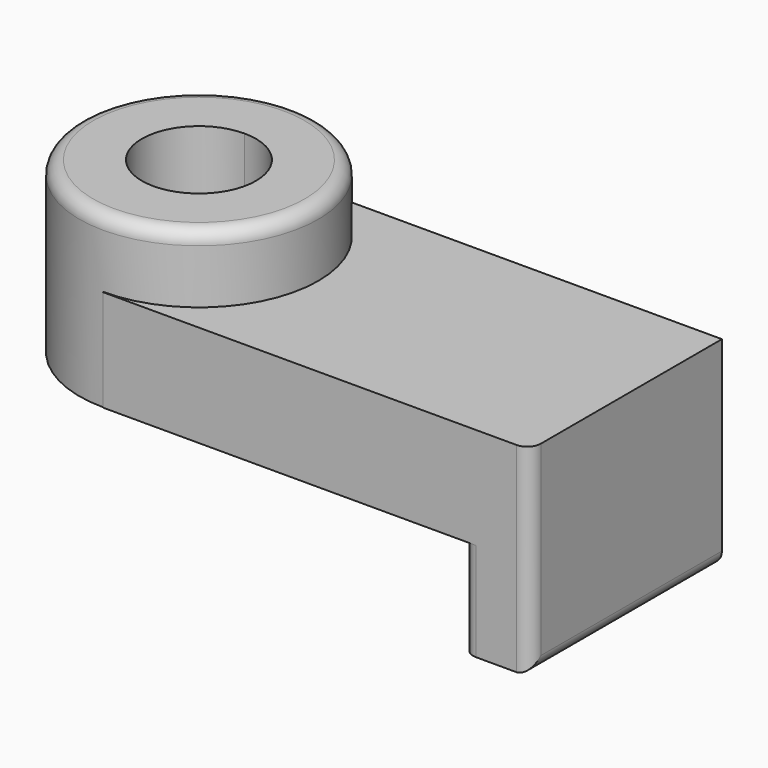
from build123d import *

# Parameters (mm, degrees)
F1_DEPTH = 38.1
F2_DEPTH = 63.5
F3_R     = 5.08
F4_W     = 89.9337530136
F4_H     = 74.9955805898
F5_DEPTH = 25.4
F6_R     = 5.08


with BuildPart() as f1:
    # F0 (on Top) → F1 (new body)
    with BuildSketch(Plane.XY):
        with BuildLine():
            Line((67.3384442925, 44.9668765068), (-67.3384442925, 44.9668765068))
            Line((-67.3384442925, 44.9668765068), (-67.3384442925, 44.7683221654))
            ThreePointArc((-67.3384442925, 44.7683221654), (-35.682460107, 31.6559841855), (-22.5701221271, 0))
            ThreePointArc((-22.5701221271, 0), (-35.682460107, -31.6559841855), (-67.3384442925, -44.7683221654))
            Line((-67.3384442925, -44.7683221654), (-67.3384442925, -44.9668765068))
            Line((-67.3384442925, -44.9668765068), (67.3384442925, -44.9668765068))
            Line((67.3384442925, -44.9668765068), (67.3384442925, 44.9668765068))
        make_face()
    extrude(amount=F1_DEPTH)

    # F0 (on Top) → F2 (join)
    with BuildSketch(Plane.XY):
        with BuildLine():
            Line((-67.3384442925, 21.3704215864), (-67.3384442925, 44.7683221654))
            ThreePointArc((-67.3384442925, 44.7683221654), (-112.1067664579, 0), (-67.3384442925, -44.7683221654))
            Line((-67.3384442925, -44.7683221654), (-67.3384442925, -21.3704215864))
            ThreePointArc((-67.3384442925, -21.3704215864), (-88.7088658789, 0), (-67.3384442925, 21.3704215864))
        make_face()
        with BuildLine():
            ThreePointArc((-22.5701221271, 0), (-35.682460107, 31.6559841855), (-67.3384442925, 44.7683221654))
            Line((-67.3384442925, 44.7683221654), (-67.3384442925, 21.3704215864))
            ThreePointArc((-67.3384442925, 21.3704215864), (-52.227274272, 15.1111700206), (-45.9680227061, 0))
            ThreePointArc((-45.9680227061, 0), (-52.227274272, -15.1111700206), (-67.3384442925, -21.3704215864))
            Line((-67.3384442925, -21.3704215864), (-67.3384442925, -44.7683221654))
            ThreePointArc((-67.3384442925, -44.7683221654), (-35.682460107, -31.6559841855), (-22.5701221271, 0))
        make_face()
    extrude(amount=F2_DEPTH)

    # F3
    f3_edges = [f1.edges().sort_by_distance(p)[0] for p in [
        (-67.338444, 44.768322, 63.5),
    ]]
    fillet(f3_edges, radius=F3_R)

    # F4 (on face) → F5 (join)
    with BuildSketch(Plane.YZ.offset(67.3384442925)):
        with Locations((0, 0.6022097051)):
            Rectangle(F4_W, F4_H)
    extrude(amount=F5_DEPTH)

    # F6
    f6_edges = [f1.edges().sort_by_distance(p)[0] for p in [
        (92.738444, -44.966877, 0.60221),
        (67.338444, -44.966877, -18.44779),
        (92.738444, 0, -36.895581),
    ]]
    fillet(f6_edges, radius=F6_R)


solid = f1.part
